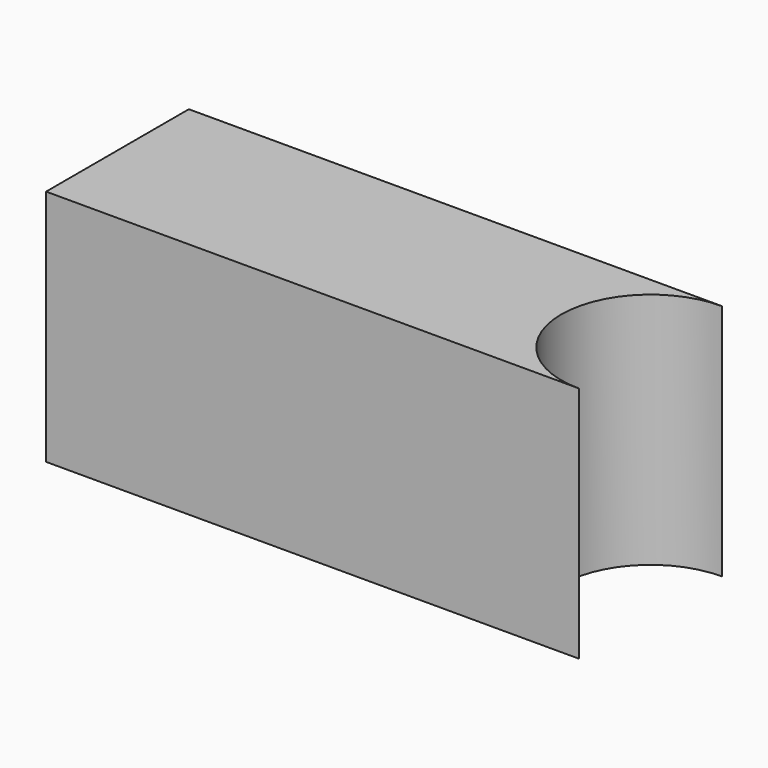
from build123d import *

# Parameters (mm, degrees)
F1_DEPTH = 20
F3_D     = 12
F3_DEPTH = 25
F3_TIP   = 3.6051637142


with BuildPart() as f1:
    # F0 (on Top) → F1 (new body)
    with BuildSketch(Plane.XY):
        with BuildLine():
            ThreePointArc((0, -7.5), (-7.5, 0), (0, 7.5))
            Line((0, 7.5), (-44.8082763299, 7.5))
            Line((-44.8082763299, 7.5), (-44.8082763299, -7.5))
            Line((-44.8082763299, -7.5), (0, -7.5))
        make_face()
    extrude(amount=F1_DEPTH)

    # F3
    with Locations(Plane(origin=(-44.8082763299, 0, 0), x_dir=(0, -1, 0), z_dir=(-1, 0, 0))):
        with Locations((0, 10)):
            Hole(F3_D / 2, depth=F3_DEPTH)
            with Locations((0, 0, -(F3_DEPTH + F3_TIP / 2))):  # 118° drill point
                Cone(0, F3_D / 2, F3_TIP, mode=Mode.SUBTRACT)


solid = f1.part
